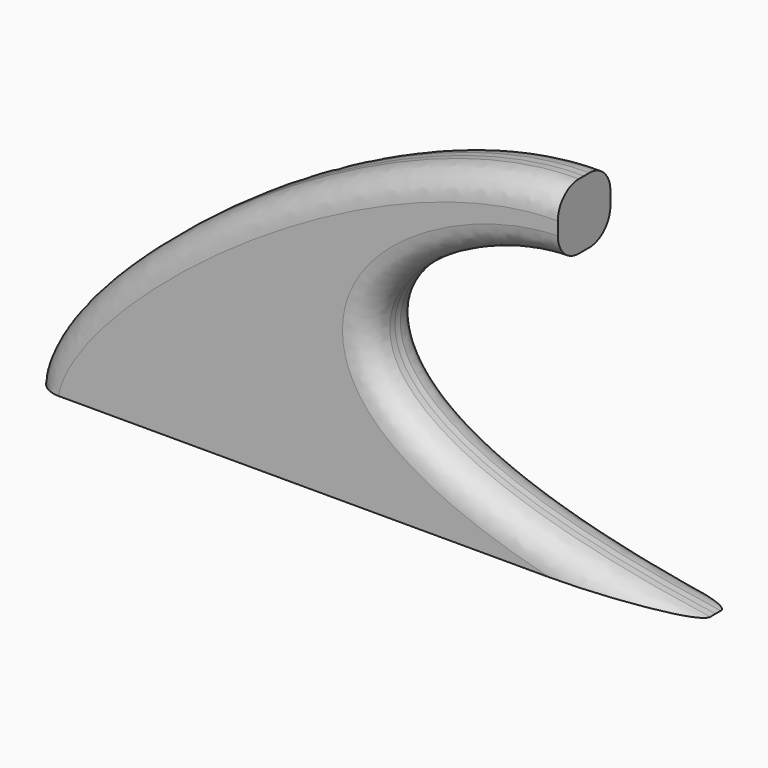
from build123d import *

# Parameters (mm, degrees)
F1_DEPTH = 6.35
F2_R     = 5.08


with BuildPart() as f1:
    # F0 (on Front) → F1 (new body, symmetric)
    with BuildSketch(Plane.XZ):
        with BuildLine():
            Line((-63.5, 6.35), (63.5, 6.35))
            add(Edge.make_bspline(
                [(63.5, 6.35), (-38.796838, 20.9835), (10.021353, 59.327461), (38.1, 59.931301)],
                knots=[0, 0, 0, 0, 59.296845, 59.296845, 59.296845, 59.296845], degree=3))
            Line((38.1, 59.931301), (38.1, 72.631301))
            add(Edge.make_bspline(
                [(-63.5, 6.35), (-62.346671, 26.418077), (-1.330229, 72.954319), (38.1, 72.631301)],
                knots=[0, 0, 0, 0, 121.308577, 121.308577, 121.308577, 121.308577], degree=3))
        make_face()
    extrude(amount=F1_DEPTH, both=True)

    # F2
    f2_edges = [f1.edges().sort_by_distance(p)[0] for p in [
        (-20.792679, -6.35, 51.301252),
        (-20.792679, 6.35, 51.301252),
        (7.139577, 6.35, 24.662786),
        (7.139577, -6.35, 24.662786),
    ]]
    fillet(f2_edges, radius=F2_R)


solid = f1.part
